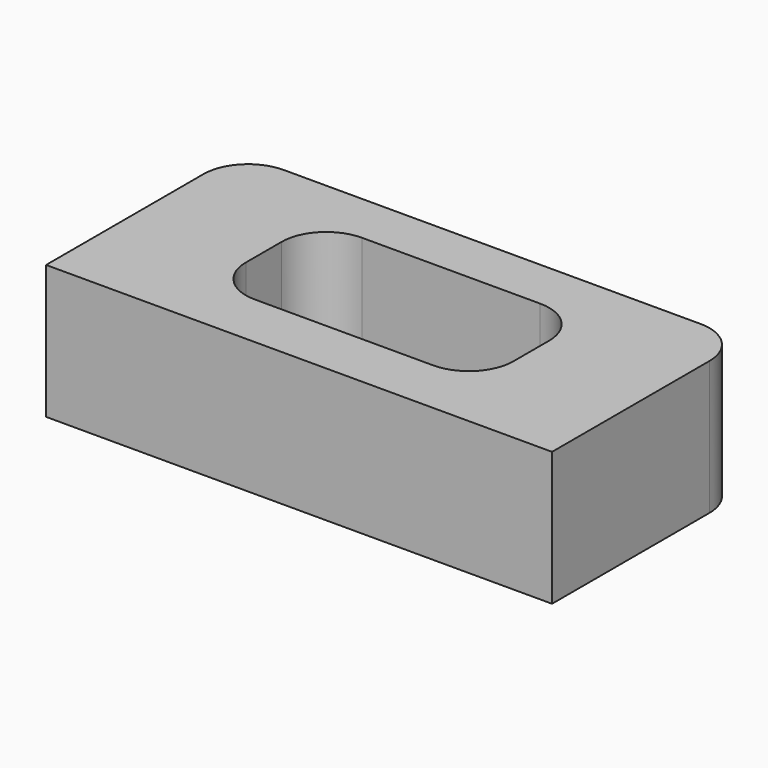
from build123d import *

# Parameters (mm, degrees)
F0_R     = 4
F1_DEPTH = 15
F2_DEPTH = 12
F3_SIZE  = 2


with BuildPart() as f1:
    # F0 (on Top) → F1 (new body)
    with BuildSketch(Plane.XY):
        with BuildLine():
            Line((0, 15), (0, 20.764023))
            Line((0, 20.764023), (-23.369339, 20.764023))
            ThreePointArc((-23.369339, 20.764023), (-26.904873, 19.299557), (-28.369339, 15.764023))
            Line((-28.369339, 15.764023), (-28.369339, -6.304249))
            Line((-28.369339, -6.304249), (0, -6.304249))
            Line((0, -6.304249), (0, 0))
            Line((0, 0), (-10, 0))
            ThreePointArc((-10, 0), (-13.535534, 1.464466), (-15, 5))
            Line((-15, 5), (-15, 10))
            ThreePointArc((-15, 10), (-13.535534, 13.535534), (-10, 15))
            Line((-10, 15), (0, 15))
        make_face()
        with Locations((-22, 0)):
            Circle(F0_R, mode=Mode.SUBTRACT)
        with Locations((-22, 15)):
            Circle(F0_R, mode=Mode.SUBTRACT)
        with BuildLine():
            Line((23.369339, 20.764023), (0, 20.764023))
            Line((0, 20.764023), (0, 15))
            Line((0, 15), (10, 15))
            ThreePointArc((10, 15), (13.535534, 13.535534), (15, 10))
            Line((15, 10), (15, 5))
            ThreePointArc((15, 5), (13.535534, 1.464466), (10, 0))
            Line((10, 0), (0, 0))
            Line((0, 0), (0, -6.304249))
            Line((0, -6.304249), (28.369339, -6.304249))
            Line((28.369339, -6.304249), (28.369339, 15.764023))
            ThreePointArc((28.369339, 15.764023), (26.904873, 19.299557), (23.369339, 20.764023))
        make_face()
        with Locations((22, 0)):
            Circle(F0_R, mode=Mode.SUBTRACT)
        with Locations((22, 15)):
            Circle(F0_R, mode=Mode.SUBTRACT)
        with Locations((-22, 15)):
            Circle(F0_R)
        with Locations((-22, 0)):
            Circle(F0_R)
        with Locations((22, 15)):
            Circle(F0_R)
        with Locations((22, 0)):
            Circle(F0_R)
    extrude(amount=F1_DEPTH)

    # F0 (on Top) → F2 (cut)
    with BuildSketch(Plane.XY):
        with Locations((22, 15)):
            Circle(F0_R)
        with Locations((22, 0)):
            Circle(F0_R)
        with Locations((-22, 15)):
            Circle(F0_R)
        with Locations((-22, 0)):
            Circle(F0_R)
    extrude(amount=F2_DEPTH, mode=Mode.SUBTRACT)

    # F3
    f3_edges = [f1.edges().sort_by_distance(p)[0] for p in [
        (0, 15, 0),
    ]]
    chamfer(f3_edges, length=F3_SIZE)


solid = f1.part
